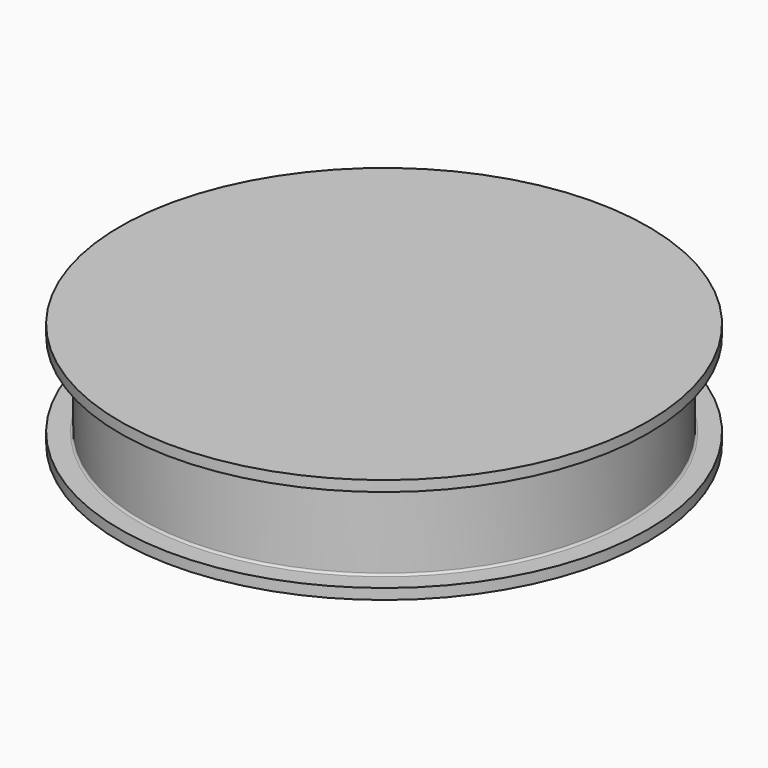
from build123d import *

# Parameters (mm, degrees)
F0_R     = 250
F1_DEPTH = 10
F2_R     = 230
F3_DEPTH = 80
F4_R     = 250
F5_DEPTH = 10
F6_R     = 2


with BuildPart() as f1:
    # F0 (on Top) → F1 (new body)
    with BuildSketch(Plane.XY):
        Circle(F0_R)
    extrude(amount=F1_DEPTH)

    # F2 (on face) → F3 (join)
    with BuildSketch(Plane.XY.offset(10)):
        Circle(F2_R)
    extrude(amount=F3_DEPTH)

    # F4 (on face) → F5 (join)
    with BuildSketch(Plane.XY.offset(90)):
        Circle(F4_R)
    extrude(amount=F5_DEPTH)

    # F6
    f6_edges = [f1.edges().sort_by_distance(p)[0] for p in [
        (230, 0, 50),
        (-230, 0, 10),
        (-230, 0, 90),
    ]]
    fillet(f6_edges, radius=F6_R)


solid = f1.part
